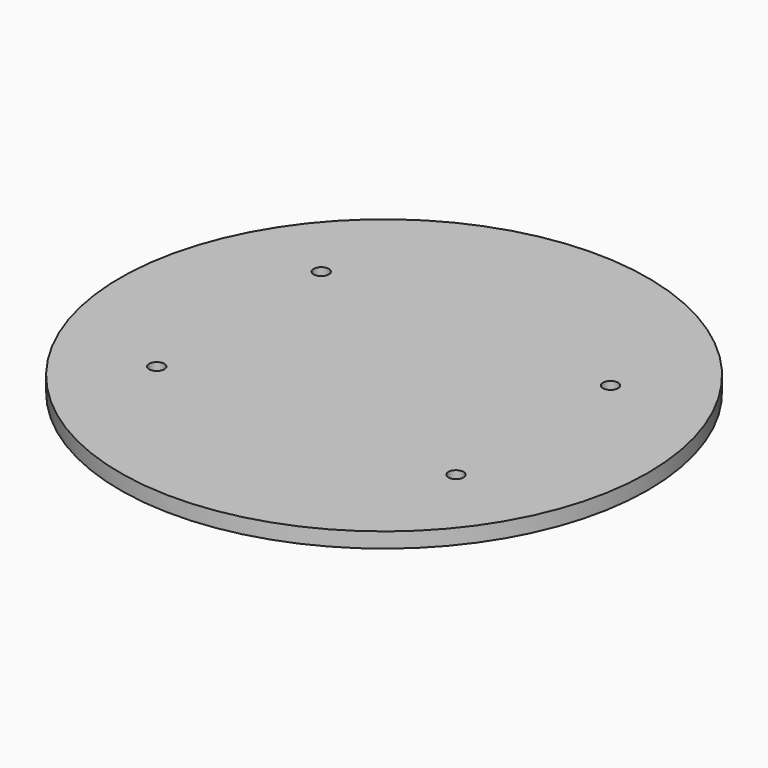
from build123d import *

# Parameters (mm, degrees)
F0_R     = 52.168743
F1_DEPTH = 3
F3_D     = 3
F7_D     = 3


with BuildPart() as f1:
    # F0 (on Top) → F1 (new body)
    with BuildSketch(Plane.XY):
        Circle(F0_R)
        Circle(F0_R)
    extrude(amount=F1_DEPTH)

    # F3 (through all)
    with Locations(Plane(origin=(0, 0, 0), x_dir=(1, 0, 0), z_dir=(0, 0, -1))):
        with Locations((-14.456525, -16.74062), (9.536847, -16.74062)):
            Hole(F3_D / 2)

    # F4: F1 across plane


with BuildPart() as f1_1:
    add(f1.part)
    add(f1.part.mirror(Plane.XZ))

    # F7 (through all)
    with Locations(Plane.XY.offset(3)):
        with Locations((-29.232398, 21.0049), (-29.232398, -19.615047), (29.403359, 19.193865), (29.403359, -18.989682)):
            Hole(F7_D / 2)


solid = f1_1.part
